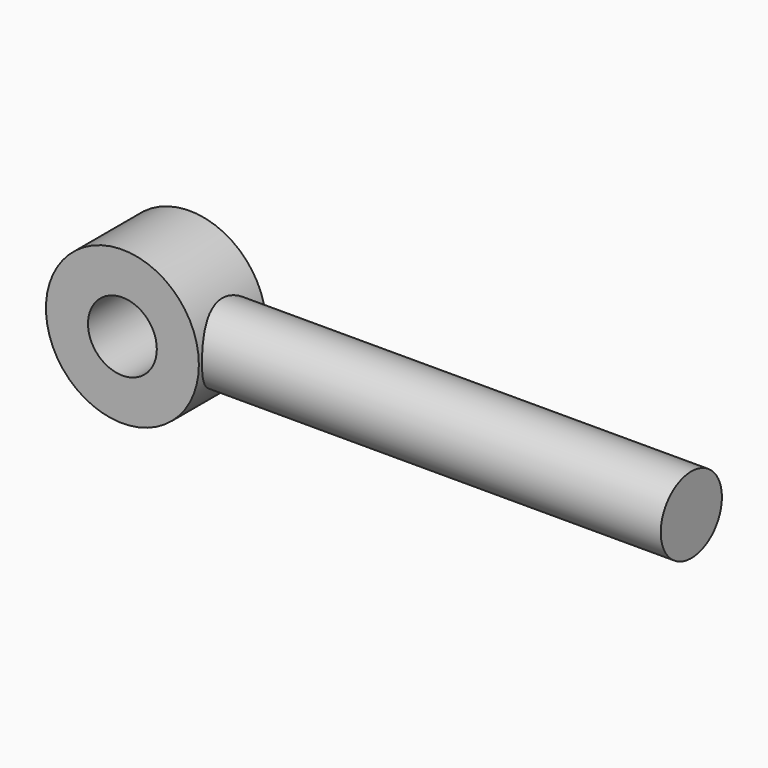
from build123d import *

# Parameters (mm, degrees)
F0_R     = 20
F0_R_2   = 9
F1_DEPTH = 22
F3_R     = 10
F4_DEPTH = 130


with BuildPart() as f1:
    # F0 (on Front) → F1 (new body)
    with BuildSketch(Plane.XZ):
        Circle(F0_R)
        Circle(F0_R_2, mode=Mode.SUBTRACT)
    extrude(amount=F1_DEPTH)


with BuildPart() as f4:
    # F3 (on offset) → F4 (new body)
    with BuildSketch(Plane.YZ.offset(140)):
        with Locations((-11, 0)):
            Circle(F3_R)
    extrude(amount=-F4_DEPTH)


solid = Compound([f1.part, f4.part])
